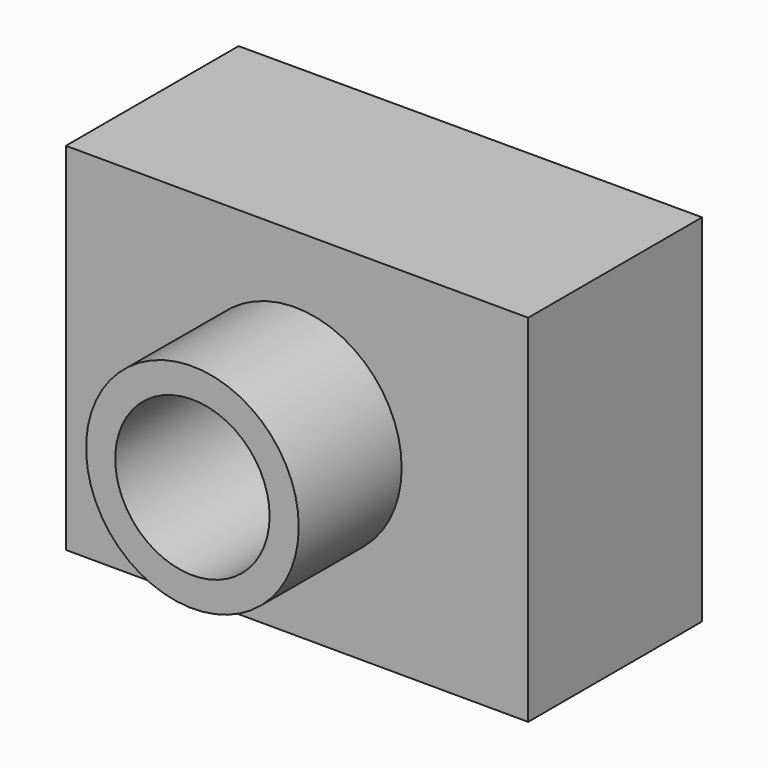
from build123d import *

# Parameters (mm, degrees)
F1_DEPTH      = 63.5
F2_R          = 19.0285497791
F3_DEPTH      = 22.86
F4_R          = 13.812440818
F5_DEPTH      = 0.2070362903
F5_DEPTH_BACK = 61.6676449049


with BuildPart() as f1:
    # F0 (on Top) → F1 (new body)
    with BuildSketch(Plane.XY):
        Polygon((-26.2109767646, -75.7453498801), (56.5097033978, -76.0293745441), (56.5097033978, -37.2225008905), (-26.2109767646, -37.2225008905), align=None)
    extrude(amount=F1_DEPTH)

    # F2 (on face) → F3 (join)
    with BuildSketch(Plane(origin=(-0.2603805333, -75.8344522589, 0), x_dir=(0.9999941055, -0.0034335185, 0), z_dir=(-0.0034335185, -0.9999941055, 0))):
        with Locations((15.1068782434, 32.5047820807)):
            Circle(F2_R)
    extrude(amount=F3_DEPTH)

    # F4 (on face) → F5 (cut, two sides)
    with BuildSketch(Plane(origin=(-0.3388707674, -98.6943175097, 0), x_dir=(0.9999941055, -0.0034335185, 0), z_dir=(-0.0034335185, -0.9999941055, 0))) as f5_sk:
        with Locations((15.1068782434, 32.5047820807)):
            Circle(F4_R)
    extrude(amount=F5_DEPTH, mode=Mode.SUBTRACT)
    extrude(f5_sk.sketch, amount=-F5_DEPTH_BACK, mode=Mode.SUBTRACT)


solid = f1.part
